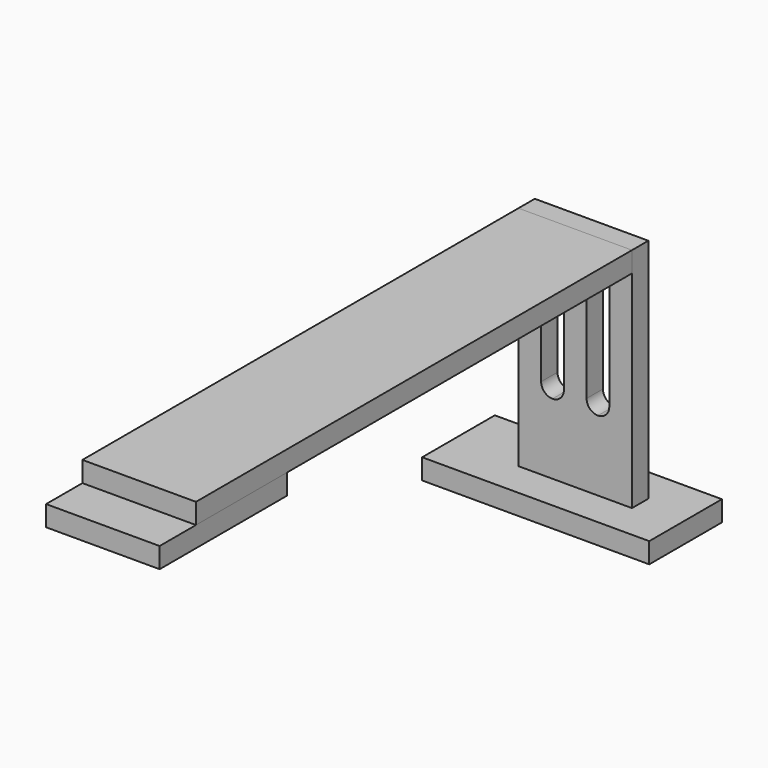
from build123d import *

# Parameters (mm, degrees)
F0_W      = 100
F0_H      = 40
F1_DEPTH  = 9
F2_W      = 50
F2_H      = 9
F3_DEPTH  = 100
F5_DEPTH  = 18
F7_DEPTH  = 240
F8_W      = 50
F8_H      = 50
F9_DEPTH  = 9
F10_W     = 50
F10_H     = 9
F11_DEPTH = 20


with BuildPart() as f1:
    # F0 (on Top) → F1 (new body)
    with BuildSketch(Plane.XY):
        Rectangle(F0_W, F0_H)
    extrude(amount=F1_DEPTH)

    # F2 (on face) → F3 (join)
    with BuildSketch(Plane.XY.offset(9)):
        with Locations((5, 0)):
            Rectangle(F2_W, F2_H)
    extrude(amount=F3_DEPTH)

    # F4 (on face) → F5 (cut)
    with BuildSketch(Plane.XZ.offset(4.5)):
        with BuildLine():
            ThreePointArc((-5, 100), (-8.5355339059, 98.5355339059), (-10, 95))
            Line((-10, 95), (-10, 45))
            ThreePointArc((-10, 45), (-8.5355339059, 41.4644660941), (-5, 40))
            ThreePointArc((-5, 40), (-1.4644660941, 41.4644660941), (0, 45))
            Line((0, 45), (0, 95))
            ThreePointArc((0, 95), (-1.4644660941, 98.5355339059), (-5, 100))
        make_face()
        with BuildLine():
            ThreePointArc((15, 100), (11.4644660941, 98.5355339059), (10, 95))
            Line((10, 95), (10, 45))
            ThreePointArc((10, 45), (11.4644660941, 41.4644660941), (15, 40))
            ThreePointArc((15, 40), (18.5355339059, 41.4644660941), (20, 45))
            Line((20, 45), (20, 95))
            ThreePointArc((20, 95), (18.5355339059, 98.5355339059), (15, 100))
        make_face()
    extrude(amount=-F5_DEPTH, mode=Mode.SUBTRACT)


with BuildPart() as f7:
    # F6 (on face) → F7 (new body)
    with BuildSketch(Plane.XZ.offset(4.5)):
        Polygon((30, 100), (30, 109), (-20, 109), (-20, 100), (-5.0000000643, 100), (15, 100), align=None)
    extrude(amount=F7_DEPTH)


with BuildPart() as f9:
    # F8 (on face) → F9 (new body)
    with BuildSketch(Plane(origin=(0, 0, 100), x_dir=(1, 0, 0), z_dir=(0, 0, -1))):
        with Locations((5, 219.5)):
            Rectangle(F8_W, F8_H)
    extrude(amount=F9_DEPTH)

    # F10 (on face) → F11 (join)
    with BuildSketch(Plane.XZ.offset(244.5)):
        with Locations((5, 95.5)):
            Rectangle(F10_W, F10_H)
    extrude(amount=F11_DEPTH)


solid = Compound([f1.part, f7.part, f9.part])
